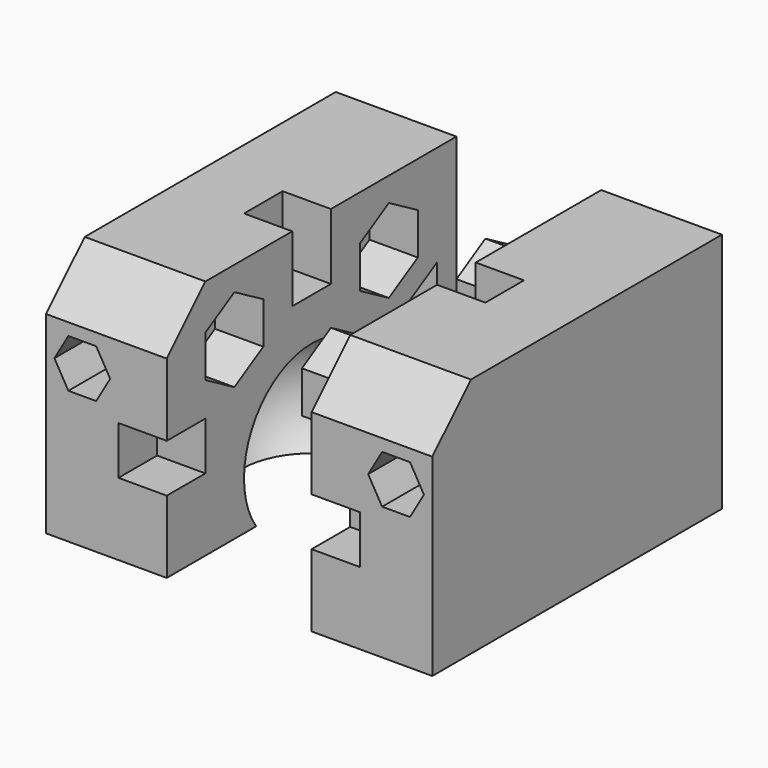
from build123d import *

# Parameters (mm, degrees)
F1_DEPTH  = 5
F4_DEPTH  = 2
F5_W      = 2
F5_H      = 2.7320508076
F6_DEPTH  = 2
F7_W      = 2
F7_H      = 2
F8_DEPTH  = 2
F9_SIZE   = 2
F11_DEPTH = 2
F13_DEPTH = 2
F16_DEPTH = 4


with BuildPart() as f1:
    # F0 (on Right) → F1 (new body)
    with BuildSketch(Plane.YZ):
        with BuildLine():
            Line((0, 10), (0, 0))
            Line((0, 0), (4.6277186767, 0))
            ThreePointArc((4.6277186767, 0), (4.3975815885, 3.6201851746), (7.5, 5.5))
            Line((7.5, 5.5), (7.5, 0))
            Line((7.5, 0), (15, 0))
            Line((15, 0), (15, 10))
            Line((15, 10), (0, 10))
        make_face()
        with BuildLine():
            ThreePointArc((7.5, 5.5), (4.3975815885, 3.6201851746), (4.6277186767, 0))
            Line((4.6277186767, 0), (7.5, 0))
            Line((7.5, 0), (7.5, 5.5))
        make_face()
    extrude(amount=-F1_DEPTH)

    # F0 (on Right) → F2 (revolve, cut)
    with BuildSketch(Plane.YZ):
        with BuildLine():
            ThreePointArc((7.5, 5.5), (4.3975815885, 3.6201851746), (4.6277186767, 0))
            Line((4.6277186767, 0), (7.5, 0))
            Line((7.5, 0), (7.5, 5.5))
        make_face()
    revolve(axis=Axis((0, 7.5, 2), (0, 0, 1)), mode=Mode.SUBTRACT)

    # F3 (on face) → F4 (cut)
    with BuildSketch(Plane.YZ):
        Polygon((2, 8.1339745962), (2, 6.4019237886), (3.5, 5.5358983849), (5, 6.4019237886), (5, 8.1339745962), (3.5, 9), align=None)
        Polygon((10, 6.4019237886), (11.5, 5.5358983849), (13, 6.4019237886), (13, 8.1339745962), (11.5, 9), (10, 8.1339745962), align=None)
    extrude(amount=-F4_DEPTH, mode=Mode.SUBTRACT)

    # F5 (on face) → F6 (cut)
    with BuildSketch(Plane.YZ):
        with Locations((7.5, 8.6339745962)):
            Rectangle(F5_W, F5_H)
    extrude(amount=-F6_DEPTH, mode=Mode.SUBTRACT)

    # F7 (on face) → F8 (cut)
    with BuildSketch(Plane.YZ):
        with Locations((1, 4)):
            Rectangle(F7_W, F7_H)
    extrude(amount=-F8_DEPTH, mode=Mode.SUBTRACT)

    # F9
    f9_edges = [f1.edges().sort_by_distance(p)[0] for p in [
        (-2.5, 0, 10),
    ]]
    chamfer(f9_edges, length=F9_SIZE)

    # F10 (on face) → F11 (cut)
    with BuildSketch(Plane.YZ):
        Polygon((12.5, 4.9585481157), (12.5, 1), (14, 1), (14, 5.8245735195), align=None)
    extrude(amount=-F11_DEPTH, mode=Mode.SUBTRACT)

    # F12 (on face) → F13 (cut)
    with BuildSketch(Plane.XZ):
        Polygon((-4.0773502692, 5.5), (-2.9226497308, 5.5), (-2.3452994616, 6.5), (-2.9226497308, 7.5), (-4.0773502692, 7.5), (-4.6547005384, 6.5), align=None)
    extrude(amount=-F13_DEPTH, mode=Mode.SUBTRACT)


with BuildPart() as f15_1:
    # F15: instance of F1
    add(f1.part.mirror(Plane.YZ.offset(3)))

    # F16 (add): faces of the model
    f16_faces = [f15_1.faces().sort_by_distance(p)[0] for p in [
        (8, 3.5, 7.2679491924),
        (8, 11.5, 7.2679491924),
        (8, 13.2746502736, 3.2028963298),
    ]]
    extrude(f16_faces, amount=F16_DEPTH)


solid = Compound([f1.part, f15_1.part])
